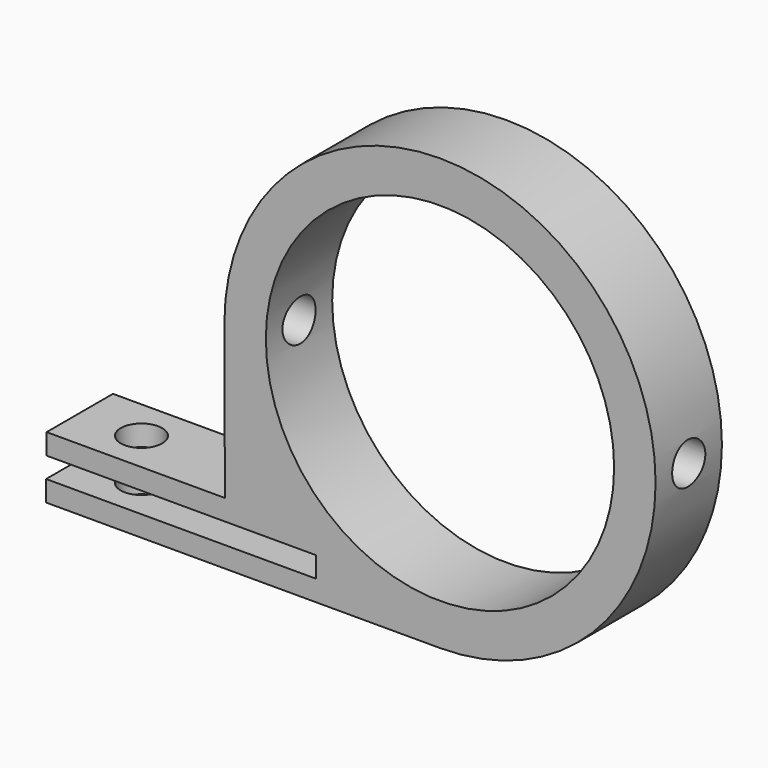
from build123d import *

# Parameters (mm, degrees)
PAD_DEPTH            = 20
SKETCH002_R          = 5
POCKET001_DEPTH      = 104.001
HOLE001_D            = 6.6
HOLE001_DEPTH        = 25
HOLE001_CSINK_D      = 12
HOLE001_CSINK_ANGLE  = 90
HOLE001_TIPS_R       = 3.3
SKETCH001_R          = 42
POCKET_DEPTH         = 20.001
SKETCH020_R          = 5
POCKET005_DEPTH      = 15.001
BODY_PLACEMENT_ANGLE = 90


with BuildPart() as part:
    # Sketch → Pad (new body)
    with BuildSketch(Plane.XY):
        with BuildLine():
            Line((-51.87, -37), (-94.87, -37))
            Line((-94.87, -37), (-94.87, -42))
            Line((-94.87, -42), (-29.87, -42))
            Line((-29.87, -42), (-29.87, -47))
            Line((-29.87, -47), (-95, -47))
            Line((-95, -47), (-95, -52))
            Line((-95, -52), (-30, -52))
            Line((-30, -52), (0, -52))
            ThreePointArc((0, -52), (36.769553, 36.769553), (-52, 0))
            Line((-52, 0), (-51.87, -37))
        make_face()
    extrude(amount=PAD_DEPTH)

    # Sketch002 (on DatumPlane) → Pocket001 (cut, through all)
    with BuildSketch(Plane(origin=(-52, 0, 0), x_dir=(0, -1, 0), z_dir=(-1, 0, 0))):
        with Locations((0, 10)):
            Circle(SKETCH002_R)
    extrude(amount=-POCKET001_DEPTH, mode=Mode.SUBTRACT)

    # Hole001
    with Locations(Plane.XZ.offset(42)):
        with Locations((65, 10)):
            CounterSinkHole(HOLE001_D / 2, HOLE001_CSINK_D / 2, depth=HOLE001_DEPTH, counter_sink_angle=HOLE001_CSINK_ANGLE)

    # Hole001 tips → Hole001 tip 1 section 0
    with BuildSketch(Plane.XZ.offset(17), mode=Mode.PRIVATE) as hole001_tip_1_s0:
        with Locations((65, 10)):
            Circle(HOLE001_TIPS_R)
    loft([hole001_tip_1_s0.sketch, Vertex(65, -15.01716, 10)], mode=Mode.SUBTRACT)

    # Sketch001 → Pocket (cut, through all)
    with BuildSketch(Plane.XY.offset(20)):
        Circle(SKETCH001_R)
    extrude(amount=-POCKET_DEPTH, mode=Mode.SUBTRACT)

    # Sketch020 (on DatumPlane) → Pocket005 (cut, through all)
    with BuildSketch(Plane(origin=(0, -37, 0), x_dir=(-1, 0, 0), z_dir=(0, 1, 0))):
        with Locations((80, 10)):
            Circle(SKETCH020_R)
    extrude(amount=-POCKET005_DEPTH, mode=Mode.SUBTRACT)


with BuildPart() as part_1:
    # Body placement: moved
    add(part.part.moved(Location((1, -773, 0))).rotate(Axis((1, -773, 0), (1, 0, 0)), BODY_PLACEMENT_ANGLE))


solid = part_1.part
